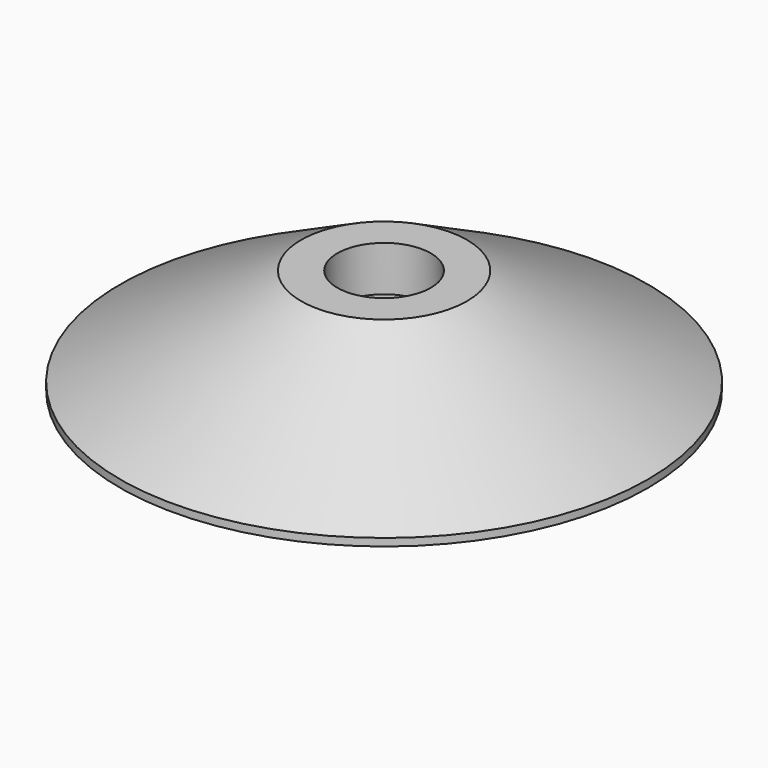
from build123d import *

# Parameters (mm, degrees)
F0_R     = 17.5
F0_R_2   = 1.6
F1_DEPTH = 7
F2_R     = 3.1
F2_R_2   = 1.6
F3_DEPTH = 3
F4_SIZE2 = 6.5
F4_SIZE  = 12


with BuildPart() as f1:
    # F0 (on Top) → F1 (new body)
    with BuildSketch(Plane.XY):
        Circle(F0_R)
        Circle(F0_R_2, mode=Mode.SUBTRACT)
    extrude(amount=F1_DEPTH)

    # F2 (on face) → F3 (cut)
    with BuildSketch(Plane.XY.offset(7)):
        Circle(F2_R)
        Circle(F2_R_2, mode=Mode.SUBTRACT)
    extrude(amount=-F3_DEPTH, mode=Mode.SUBTRACT)

    # F4
    f4_edges = [f1.edges().sort_by_distance(p)[0] for p in [
        (-17.5, 0, 7),
    ]]
    f4_side = f1.faces().sort_by_distance((-17.005025, 0, 7))[0]
    chamfer(f4_edges, length=F4_SIZE, length2=F4_SIZE2, reference=f4_side)


solid = f1.part
